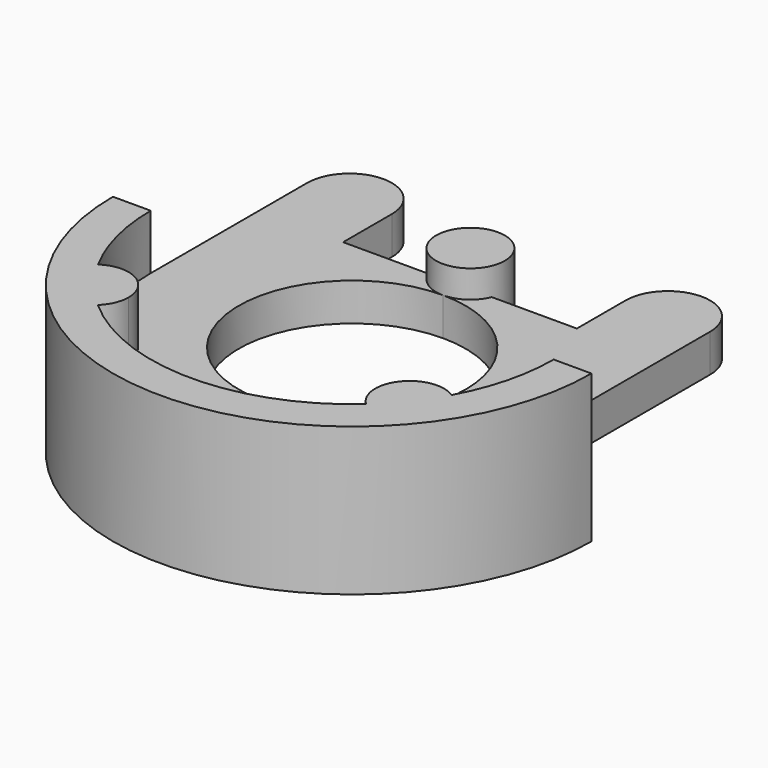
from build123d import *

# Parameters (mm, degrees)
F1_DEPTH      = 2.75
F2_DEPTH      = 6.75
F2_DEPTH_BACK = 4
F3_DEPTH      = 6.75
F4_DEPTH      = 4.75


with BuildPart() as f1:
    # F0 (on Top) → F1 (new body)
    with BuildSketch(Plane.XY):
        with BuildLine():
            ThreePointArc((2.312466216, 9.8), (1.3919410963, 8.673344038), (1.34e-08, 8.25))
            ThreePointArc((1.34e-08, 8.25), (-1.3919410851, 8.6733440305), (-2.312466216, 9.8))
            Line((-2.312466216, 9.8), (-8.5, 9.8))
            Line((-8.5, 9.8), (-8.5, 11.9319948039))
            ThreePointArc((-8.5, 11.9319948039), (-13.02204861, 6.7118365594), (-14.65, 0))
            ThreePointArc((-14.65, 0), (-14.1933462479, -3.6292454155), (-12.8518536129, -7.0322371059))
            ThreePointArc((-12.8518536129, -7.0322371059), (-10.2873209178, -6.9119317152), (-8.9690606516, -9.1149957636))
            ThreePointArc((-8.9690606516, -9.1149957636), (-9.1731996175, -10.104451226), (-9.7522783412, -10.9323175565))
            ThreePointArc((-9.7522783412, -10.9323175565), (0, -14.65), (9.7522783412, -10.9323175565))
            ThreePointArc((9.7522783412, -10.9323175565), (9.511883066, -7.5595357357), (12.8518536129, -7.0322371059))
            ThreePointArc((12.8518536129, -7.0322371059), (14.1933462479, -3.6292454155), (14.65, 0))
            ThreePointArc((14.65, 0), (13.02204861, 6.7118365594), (8.5, 11.9319948039))
            Line((8.5, 11.9319948039), (8.5, 9.8))
            Line((8.5, 9.8), (2.312466216, 9.8))
        make_face()
        with BuildLine():
            ThreePointArc((1.34e-08, 8.25), (5.8336309495, 5.8336309401), (8.25, 0))
            ThreePointArc((8.25, 0), (-5.8336309495, -5.8336309401), (1.34e-08, 8.25))
        make_face(mode=Mode.SUBTRACT)
        with BuildLine():
            ThreePointArc((9.7522783412, -10.9323175565), (11.4690606516, -9.1149957636), (12.8518536129, -7.0322371059))
            ThreePointArc((12.8518536129, -7.0322371059), (9.511883066, -7.5595357357), (9.7522783412, -10.9323175565))
        make_face()
        with BuildLine():
            ThreePointArc((-8.9690606516, -9.1149957636), (-10.2873209178, -6.9119317152), (-12.8518536129, -7.0322371059))
            ThreePointArc((-12.8518536129, -7.0322371059), (-11.4690606516, -9.1149957636), (-9.7522783412, -10.9323175565))
            ThreePointArc((-9.7522783412, -10.9323175565), (-9.1731996175, -10.104451226), (-8.9690606516, -9.1149957636))
        make_face()
        with BuildLine():
            Line((8.5, 14.225), (8.5, 11.9319948039))
            ThreePointArc((8.5, 11.9319948039), (13.02204861, 6.7118365594), (14.65, 0))
            Line((14.65, 0), (14.65, 9.8))
            Line((14.65, 9.8), (14.65, 14.225))
            ThreePointArc((14.65, 14.225), (13.7493533521, 16.3993533521), (11.575, 17.3))
            ThreePointArc((11.575, 17.3), (9.4006466479, 16.3993533521), (8.5, 14.225))
        make_face()
        with BuildLine():
            ThreePointArc((-14.65, 0), (-13.02204861, 6.7118365594), (-8.5, 11.9319948039))
            Line((-8.5, 11.9319948039), (-8.5, 14.225))
            ThreePointArc((-8.5, 14.225), (-9.4006466479, 16.3993533521), (-11.575, 17.3))
            ThreePointArc((-11.575, 17.3), (-13.7493533521, 16.3993533521), (-14.65, 14.225))
            Line((-14.65, 14.225), (-14.65, 9.8))
            Line((-14.65, 9.8), (-14.65, 0))
        make_face()
        with BuildLine():
            ThreePointArc((-2.312466216, 9.8), (-1.3919410851, 8.6733440305), (1.34e-08, 8.25))
            ThreePointArc((1.34e-08, 8.25), (1.3919410963, 8.673344038), (2.312466216, 9.8))
            Line((2.312466216, 9.8), (0, 9.8))
            Line((0, 9.8), (-2.312466216, 9.8))
        make_face()
        with BuildLine():
            ThreePointArc((2.5, 10.75), (-0.4841665313, 13.2026684998), (-2.312466216, 9.8))
            Line((-2.312466216, 9.8), (0, 9.8))
            Line((0, 9.8), (2.312466216, 9.8))
            ThreePointArc((2.312466216, 9.8), (2.4526684998, 10.2658334687), (2.5, 10.75))
        make_face()
    extrude(amount=F1_DEPTH)

    # F0 (on Top) → F2 (join, two sides)
    with BuildSketch(Plane.XY) as f2_sk:
        with BuildLine():
            ThreePointArc((-12.8518536129, -7.0322371059), (-14.1933462479, -3.6292454155), (-14.65, 0))
            Line((-14.65, 0), (-17.4, 0))
            ThreePointArc((-17.4, 0), (0, -17.4), (17.4, 0))
            Line((17.4, 0), (14.65, 0))
            ThreePointArc((14.65, 0), (14.1933462479, -3.6292454155), (12.8518536129, -7.0322371059))
            ThreePointArc((12.8518536129, -7.0322371059), (13.6721247, -7.9332560298), (13.9690606516, -9.1149957636))
            ThreePointArc((13.9690606516, -9.1149957636), (12.458516114, -11.4108567977), (9.7522783412, -10.9323175565))
            ThreePointArc((9.7522783412, -10.9323175565), (0, -14.65), (-9.7522783412, -10.9323175565))
            ThreePointArc((-9.7522783412, -10.9323175565), (-13.4262382372, -10.6704557915), (-12.8518536129, -7.0322371059))
        make_face()
        with BuildLine():
            ThreePointArc((-9.7522783412, -10.9323175565), (-11.4690606516, -9.1149957636), (-12.8518536129, -7.0322371059))
            ThreePointArc((-12.8518536129, -7.0322371059), (-13.4262382372, -10.6704557915), (-9.7522783412, -10.9323175565))
        make_face()
        with BuildLine():
            ThreePointArc((13.9690606516, -9.1149957636), (13.6721247, -7.9332560298), (12.8518536129, -7.0322371059))
            ThreePointArc((12.8518536129, -7.0322371059), (11.4690606516, -9.1149957636), (9.7522783412, -10.9323175565))
            ThreePointArc((9.7522783412, -10.9323175565), (12.458516114, -11.4108567977), (13.9690606516, -9.1149957636))
        make_face()
    extrude(amount=F2_DEPTH)
    extrude(f2_sk.sketch, amount=-F2_DEPTH_BACK)

    # F0 (on Top) → F3 (join, through all)
    with BuildSketch(Plane.XY):
        with BuildLine():
            ThreePointArc((9.7522783412, -10.9323175565), (11.4690606516, -9.1149957636), (12.8518536129, -7.0322371059))
            ThreePointArc((12.8518536129, -7.0322371059), (9.511883066, -7.5595357357), (9.7522783412, -10.9323175565))
        make_face()
        with BuildLine():
            ThreePointArc((-8.9690606516, -9.1149957636), (-10.2873209178, -6.9119317152), (-12.8518536129, -7.0322371059))
            ThreePointArc((-12.8518536129, -7.0322371059), (-11.4690606516, -9.1149957636), (-9.7522783412, -10.9323175565))
            ThreePointArc((-9.7522783412, -10.9323175565), (-9.1731996175, -10.104451226), (-8.9690606516, -9.1149957636))
        make_face()
        with BuildLine():
            ThreePointArc((-9.7522783412, -10.9323175565), (-11.4690606516, -9.1149957636), (-12.8518536129, -7.0322371059))
            ThreePointArc((-12.8518536129, -7.0322371059), (-13.4262382372, -10.6704557915), (-9.7522783412, -10.9323175565))
        make_face()
    extrude(amount=F3_DEPTH)

    # F0 (on Top) → F4 (join)
    with BuildSketch(Plane.XY):
        with BuildLine():
            ThreePointArc((2.5, 10.75), (-0.4841665313, 13.2026684998), (-2.312466216, 9.8))
            Line((-2.312466216, 9.8), (0, 9.8))
            Line((0, 9.8), (2.312466216, 9.8))
            ThreePointArc((2.312466216, 9.8), (2.4526684998, 10.2658334687), (2.5, 10.75))
        make_face()
        with BuildLine():
            ThreePointArc((-2.312466216, 9.8), (-1.3919410851, 8.6733440305), (1.34e-08, 8.25))
            ThreePointArc((1.34e-08, 8.25), (1.3919410963, 8.673344038), (2.312466216, 9.8))
            Line((2.312466216, 9.8), (0, 9.8))
            Line((0, 9.8), (-2.312466216, 9.8))
        make_face()
    extrude(amount=F4_DEPTH)


solid = f1.part
